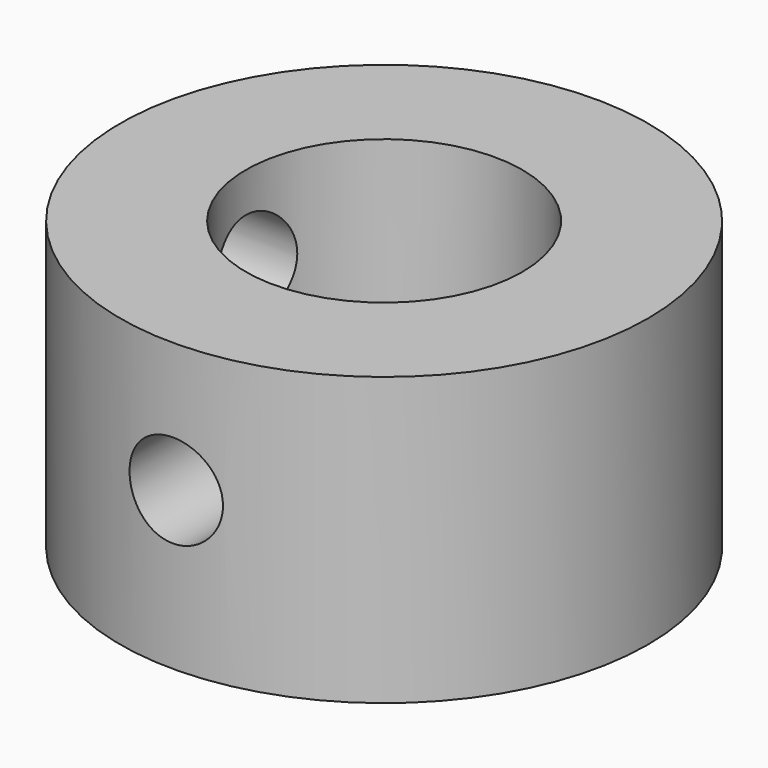
from build123d import *

# Parameters (mm, degrees)
F0_R     = 22.982221
F0_R_2   = 12.037169
F1_DEPTH = 25
F2_R     = 4.502858
F3_DEPTH = 22.983221
F4_R     = 4.066018
F5_DEPTH = 22.983221


with BuildPart() as f1:
    # F0 (on Top) → F1 (new body)
    with BuildSketch(Plane.XY):
        Circle(F0_R)
        Circle(F0_R_2, mode=Mode.SUBTRACT)
    extrude(amount=F1_DEPTH)

    # F2 (on Right) → F3 (cut, through all)
    with BuildSketch(Plane.YZ):
        with Locations((0, 17.034575)):
            Circle(F2_R)
    extrude(amount=-F3_DEPTH, mode=Mode.SUBTRACT)

    # F4 (on Front) → F5 (cut, through all)
    with BuildSketch(Plane.XZ):
        with Locations((0, 13.683511)):
            Circle(F4_R)
    extrude(amount=F5_DEPTH, mode=Mode.SUBTRACT)


solid = f1.part
